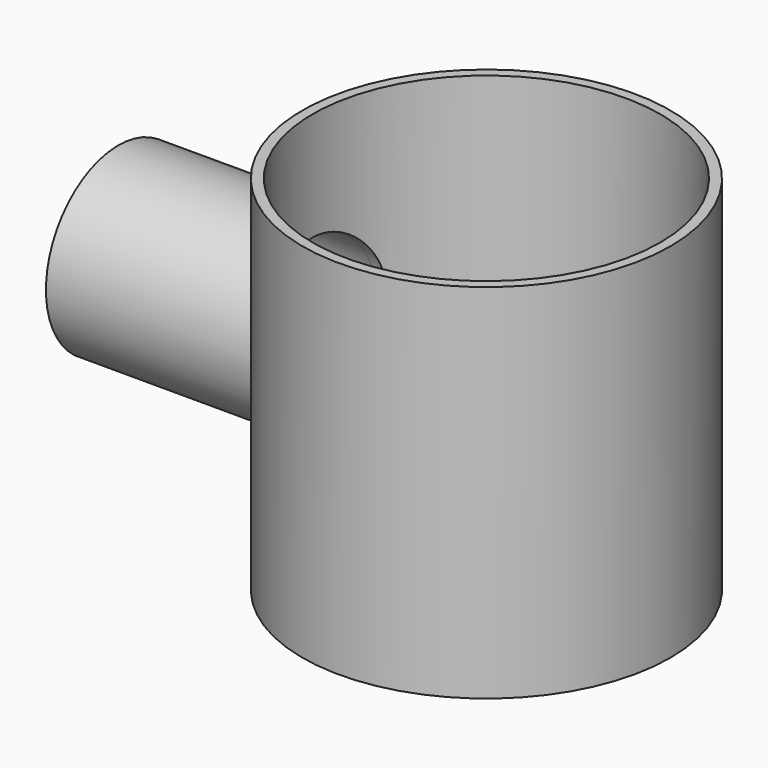
from build123d import *

# Parameters (mm, degrees)
F0_R     = 50.8
F0_R_2   = 48
F1_DEPTH = 50
F2_R     = 50.8
F2_R_2   = 20.0025
F3_DEPTH = 50
F4_R     = 20
F5_DEPTH = 50.801
F7_R     = 25
F7_R_2   = 20


with BuildPart() as f1:
    # F0 (on Top) → F1 (new body, symmetric)
    with BuildSketch(Plane.XY):
        Circle(F0_R)
        Circle(F0_R_2, mode=Mode.SUBTRACT)
    extrude(amount=F1_DEPTH, both=True)

    # F2 (on Top) → F3 (join, through all)
    with BuildSketch(Plane.XY):
        Circle(F2_R)
        Circle(F2_R_2, mode=Mode.SUBTRACT)
    extrude(amount=-F3_DEPTH)

    # F4 (on Right) → F5 (cut, through all)
    with BuildSketch(Plane.YZ):
        Circle(F4_R)
    extrude(amount=-F5_DEPTH, mode=Mode.SUBTRACT)

    # F7 (on offset) → F8 (join, up to the next surface of F1)
    with BuildSketch(Plane.YZ.offset(-101.6)):
        Circle(F7_R)
        Circle(F7_R_2, mode=Mode.SUBTRACT)
    extrude(until=Until.NEXT)


solid = f1.part
